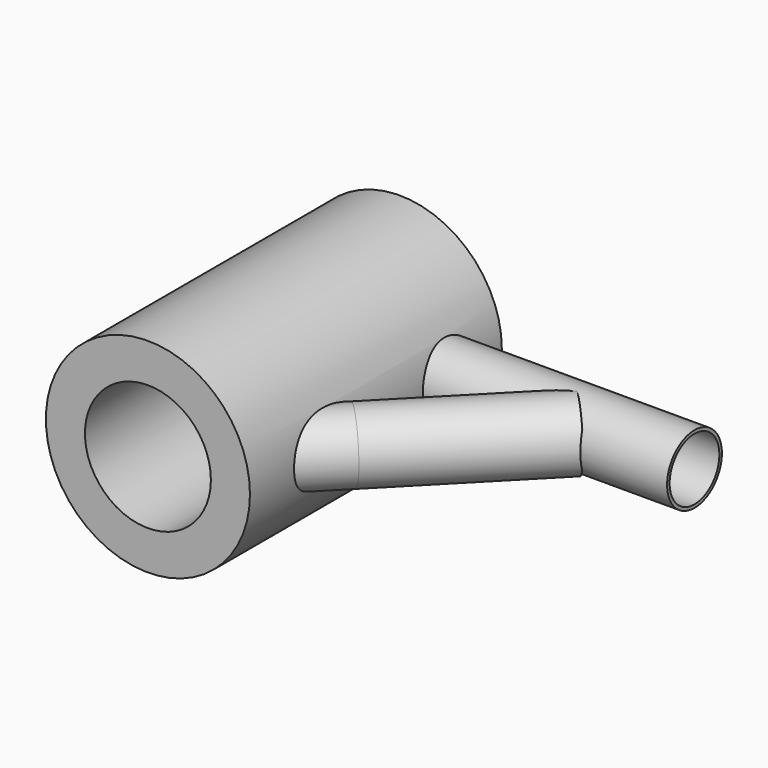
from build123d import *

# Parameters (mm, degrees)
F0_R           = 41.15773508
F1_DEPTH       = 127
F2_R           = 13.8288894668
F3_DEPTH       = 139.7
F4_R           = 25.4
F5_DEPTH       = 127.0010001
F9_R           = 13.8288903
F10_DEPTH      = 71.12
F10_DEPTH_BACK = 25.4
F6_R           = 12.5475422144
F11_DEPTH      = 130.13189


with BuildPart() as f1:
    # F0 (on Front) → F1 (new body)
    with BuildSketch(Plane.XZ):
        Circle(F0_R)
    extrude(amount=-F1_DEPTH)

    # F2 (on Right) → F3 (join)
    with BuildSketch(Plane.YZ):
        with Locations((100.965000689, 0)):
            Circle(F2_R)
    extrude(amount=F3_DEPTH)

    # F4 (on face) → F5 (cut, through all)
    with BuildSketch(Plane.XZ):
        Circle(F4_R)
    extrude(amount=-F5_DEPTH, mode=Mode.SUBTRACT)

    # F9 (on line) → F10 (join, two sides)
    with BuildSketch(Plane(origin=(45.6729605794, 46.6137044132, 0), x_dir=(-0.7142777152, 0.6998623761, 0), z_dir=(0.6998623761, 0.7142777152, 0))) as f10_sk:
        Circle(F9_R)
    extrude(amount=F10_DEPTH)
    extrude(f10_sk.sketch, amount=-F10_DEPTH_BACK)

    # F6 (on face) → F11 (cut)
    with BuildSketch(Plane.YZ.offset(139.7)):
        with Locations((100.965000689, 0)):
            Circle(F6_R)
    extrude(amount=-F11_DEPTH, mode=Mode.SUBTRACT)


solid = f1.part
